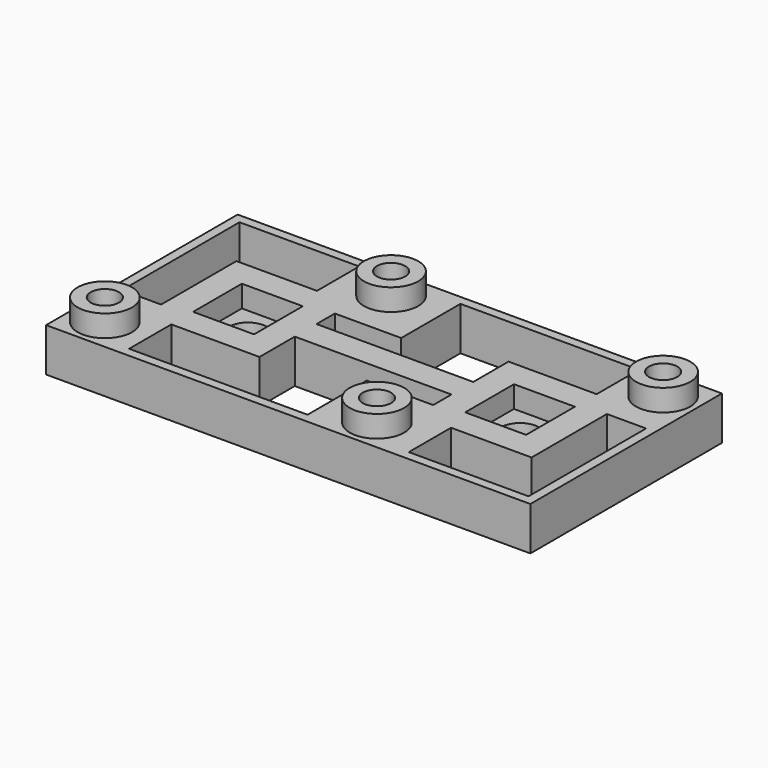
from build123d import *

# Parameters (mm, degrees)
SKETCH_W        = 44.5
SKETCH_H        = 22
SKETCH_R        = 1.75
SKETCH_R_2      = 1.3
PAD_DEPTH       = 4
SKETCH001_W     = 5.6
SKETCH001_H     = 5.6
POCKET_DEPTH    = 2
SKETCH002_W     = 4.3
SKETCH002_H     = 4.3
POCKET001_DEPTH = 2
SKETCH003_R     = 2.5
SKETCH003_R_2   = 1.3
PAD001_DEPTH    = 2
POCKET002_DEPTH = 4.001


with BuildPart() as part:
    # Sketch → Pad (new body)
    with BuildSketch(Plane.XY):
        Rectangle(SKETCH_W, SKETCH_H)
        with Locations((-12.5, 0)):
            Circle(SKETCH_R, mode=Mode.SUBTRACT)
        with Locations((12.5, 0)):
            Circle(SKETCH_R, mode=Mode.SUBTRACT)
        with Locations((-19.25, -8)):
            Circle(SKETCH_R_2, mode=Mode.SUBTRACT)
        with Locations((-5.75, 8)):
            Circle(SKETCH_R_2, mode=Mode.SUBTRACT)
        with Locations((19.25, 8)):
            Circle(SKETCH_R_2, mode=Mode.SUBTRACT)
        with Locations((5.75, -8)):
            Circle(SKETCH_R_2, mode=Mode.SUBTRACT)
    extrude(amount=PAD_DEPTH)

    # Sketch001 (on Face12 of Pad) → Pocket (cut)
    with BuildSketch(Plane.XY.offset(4)):
        with Locations((-12.5, 0)):
            Rectangle(SKETCH001_W, SKETCH001_H)
        with Locations((12.5, 0)):
            Rectangle(SKETCH001_W, SKETCH001_H)
    extrude(amount=-POCKET_DEPTH, mode=Mode.SUBTRACT)

    # Sketch002 → Pocket001 (cut)
    with BuildSketch(Plane(origin=(0, 0, 0), x_dir=(1, 0, 0), z_dir=(0, 0, -1))):
        with Locations((-19.25, 8)):
            Rectangle(SKETCH002_W, SKETCH002_H)
        with Locations((5.75, 8)):
            Rectangle(SKETCH002_W, SKETCH002_H)
        with Locations((-5.75, -8)):
            Rectangle(SKETCH002_W, SKETCH002_H)
        with Locations((19.25, -8)):
            Rectangle(SKETCH002_W, SKETCH002_H)
    extrude(amount=-POCKET001_DEPTH, mode=Mode.SUBTRACT)

    # Sketch003 (on Face5 of Pocket001) → Pad001 (join)
    with BuildSketch(Plane.XY.offset(4)):
        with Locations((-5.75, 8)):
            Circle(SKETCH003_R)
        with Locations((-5.75, 8)):
            Circle(SKETCH003_R_2, mode=Mode.SUBTRACT)
        with Locations((-19.25, -8)):
            Circle(SKETCH003_R)
        with Locations((-19.25, -8)):
            Circle(SKETCH003_R_2, mode=Mode.SUBTRACT)
        with Locations((5.75, -8)):
            Circle(SKETCH003_R)
        with Locations((5.75, -8)):
            Circle(SKETCH003_R_2, mode=Mode.SUBTRACT)
        with Locations((19.25, 8)):
            Circle(SKETCH003_R)
        with Locations((19.25, 8)):
            Circle(SKETCH003_R_2, mode=Mode.SUBTRACT)
    extrude(amount=PAD001_DEPTH)

    # Sketch004 (on Face5 of Pad001) → Pocket002 (cut, through all)
    with BuildSketch(Plane.XY.offset(4)):
        Polygon((-21.4, 10.15), (-10.4, 10.15), (-10.4, 5.3), (-17.8, 5.3), (-17.8, -3.35), (-21.4, -3.35), align=None)
        Polygon((17.8, 3.35), (21.4, 3.35), (21.4, -10.15), (10.4, -10.15), (10.4, -5.3), (17.8, -5.3), align=None)
        Polygon((-1.1, 10.15), (-1.1, 3.35), (-7.2, 3.35), (-7.2, 1.25), (7.2, 1.25), (7.2, 5.3), (15.3, 5.3), (15.3, 10.15), align=None)
        Polygon((-15.3, -5.3), (-15.3, -10.15), (1.1, -10.15), (1.1, -3.35), (7.2, -3.35), (7.2, -1.25), (-7.2, -1.25), (-7.2, -5.3), align=None)
    extrude(amount=-POCKET002_DEPTH, mode=Mode.SUBTRACT)


solid = part.part
